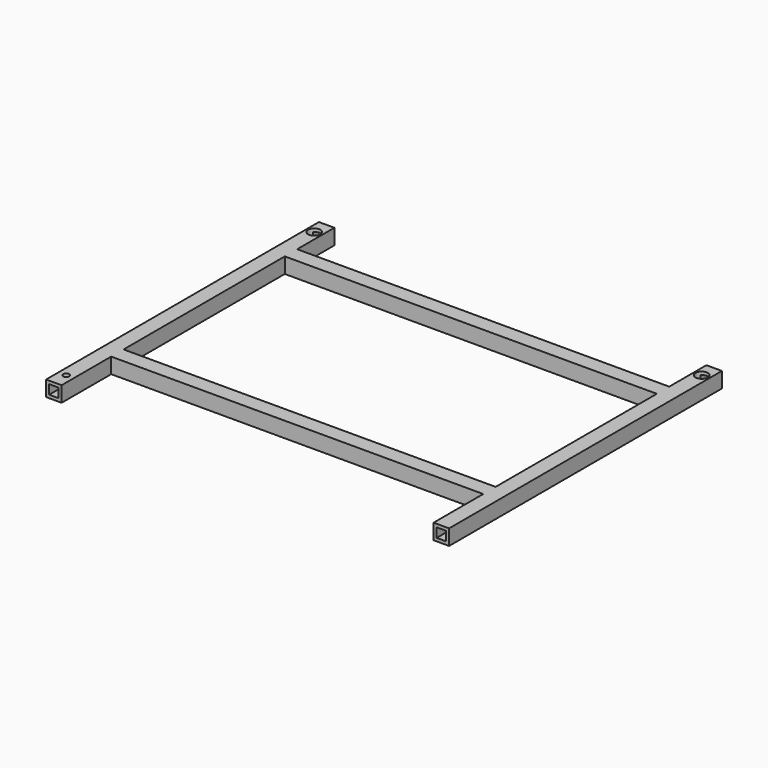
from build123d import *

# Parameters (mm, degrees)
SKETCH_W        = 1200
SKETCH_H        = 650
PAD_DEPTH       = 50
SKETCH001_W     = 30
SKETCH001_H     = 30
POCKET_DEPTH    = 1100
SKETCH002_W     = 30
SKETCH002_H     = 30
POCKET001_DEPTH = 1200
SKETCH003_R     = 20
POCKET002_DEPTH = 45
SKETCH004_R     = 10
POCKET003_DEPTH = 45


with BuildPart() as part:
    # Sketch → Pad (new body)
    with BuildSketch(Plane.XY):
        Polygon((0, 0), (0, 1100), (50, 1100), (50, 950), (1250, 950), (1250, 1100), (1300, 1100), (1300, 0), (1250, 0), (1250, 200), (50, 200), (50, 0), align=None)
        with Locations((650, 575)):
            Rectangle(SKETCH_W, SKETCH_H, mode=Mode.SUBTRACT)
    extrude(amount=PAD_DEPTH)

    # Sketch001 (on Face2 of Pad) → Pocket (cut)
    with BuildSketch(Plane.XZ):
        with Locations((25, 25)):
            Rectangle(SKETCH001_W, SKETCH001_H)
        with Locations((1275, 25)):
            Rectangle(SKETCH001_W, SKETCH001_H)
    extrude(amount=-POCKET_DEPTH, mode=Mode.SUBTRACT)

    # Sketch002 (on Face19 of Pocket) → Pocket001 (cut)
    with BuildSketch(Plane.YZ.offset(50)):
        with Locations((225, 25)):
            Rectangle(SKETCH002_W, SKETCH002_H)
        with Locations((925, 25)):
            Rectangle(SKETCH002_W, SKETCH002_H)
    extrude(amount=POCKET001_DEPTH, mode=Mode.SUBTRACT)

    # Sketch003 (on Face5 of Pocket001) → Pocket002 (cut)
    with BuildSketch(Plane.XY.offset(50)):
        with Locations((25, 1050)):
            Circle(SKETCH003_R)
        with Locations((1275, 1050)):
            Circle(SKETCH003_R)
    extrude(amount=-POCKET002_DEPTH, mode=Mode.SUBTRACT)

    # Sketch004 (on Face5 of Pocket002) → Pocket003 (cut)
    with BuildSketch(Plane.XY.offset(50)):
        with Locations((25, 50)):
            Circle(SKETCH004_R)
    extrude(amount=-POCKET003_DEPTH, mode=Mode.SUBTRACT)


solid = part.part
